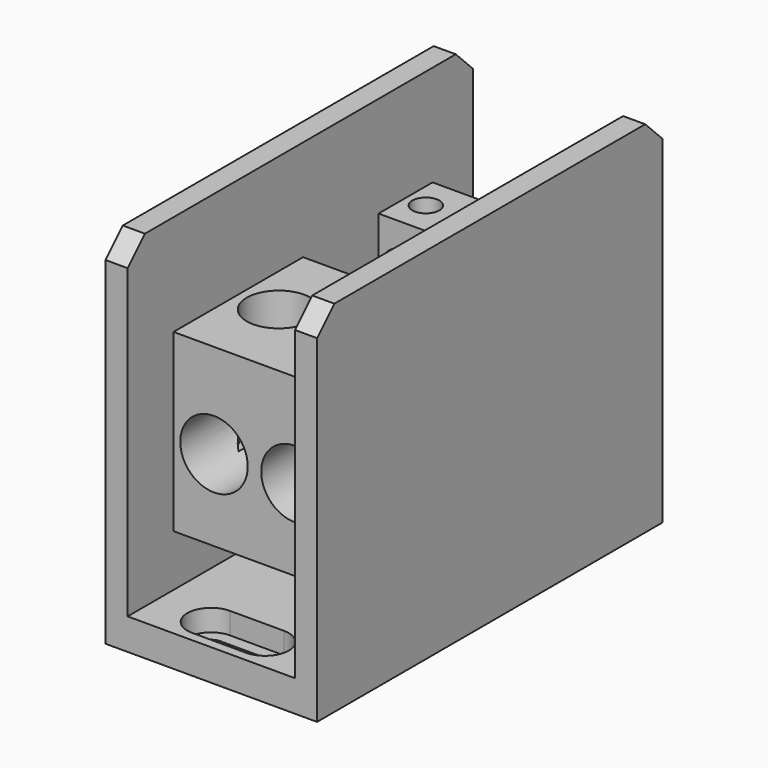
from build123d import *

# Parameters (mm, degrees)
F0_W      = 49.784
F0_H      = 101.6
F1_DEPTH  = 84.582
F2_W      = 39.37
F2_H      = 101.6
F3_DEPTH  = 77.216
F4_W      = 12.7
F4_H      = 5.334
F5_DEPTH  = 7.366
F6_SIZE   = 5.08
F7_W      = 12.7
F7_H      = 11.176
F8_DEPTH  = 5.08
F9_W      = 39.37
F9_H      = 38.1
F10_DEPTH = 12.7
F11_W     = 38.1
F11_H     = 76.2
F12_DEPTH = 41.275
F13_W     = 38.1
F13_H     = 22.225
F14_DEPTH = 22.225
F15_R     = 7.540625
F16_DEPTH = 28.575
F17_R     = 7.9375
F18_DEPTH = 38.1
F19_R     = 3.175
F20_DEPTH = 12.7
F21_R     = 2.515423
F21_R_2   = 2.622326
F21_R_3   = 2.727055
F21_R_4   = 2.517605
F22_DEPTH = 12.7
F23_R     = 3.571875
F24_DEPTH = 31.75


with BuildPart() as f1:
    # F0 (on Top) → F1 (new body)
    with BuildSketch(Plane.XY):
        Rectangle(F0_W, F0_H)
    extrude(amount=F1_DEPTH)

    # F2 (on face) → F3 (cut)
    with BuildSketch(Plane.XY.offset(84.582)):
        Rectangle(F2_W, F2_H)
    extrude(amount=-F3_DEPTH, mode=Mode.SUBTRACT)

    # F4 (on face) → F5 (cut)
    with BuildSketch(Plane.XY.offset(7.366)):
        with Locations((0, 42.926)):
            Rectangle(F4_W, F4_H)
        with BuildLine():
            Line((6.35, 45.593), (6.35, 40.259))
            ThreePointArc((6.35, 40.259), (9.017, 42.926), (6.35, 45.593))
        make_face()
        with BuildLine():
            ThreePointArc((-6.35, 45.593), (-9.017, 42.926), (-6.35, 40.259))
            Line((-6.35, 40.259), (-6.35, 45.593))
        make_face()
        with Locations((0, -42.926)):
            Rectangle(F4_W, F4_H)
        with BuildLine():
            Line((-6.35, -45.593), (-6.35, -40.259))
            ThreePointArc((-6.35, -40.259), (-9.017, -42.926), (-6.35, -45.593))
        make_face()
        with BuildLine():
            ThreePointArc((6.35, -45.593), (9.017, -42.926), (6.35, -40.259))
            Line((6.35, -40.259), (6.35, -45.593))
        make_face()
    extrude(amount=-F5_DEPTH, mode=Mode.SUBTRACT)

    # F6
    f6_edges = [f1.edges().sort_by_distance(p)[0] for p in [
        (-22.2885, 50.8, 84.582),
        (22.2885, 50.8, 84.582),
        (22.2885, -50.8, 84.582),
        (-22.2885, -50.8, 84.582),
    ]]
    chamfer(f6_edges, length=F6_SIZE)

    # F7 (on face) → F8 (cut)
    with BuildSketch(Plane.XY.offset(7.366)):
        with Locations((0, 42.926)):
            Rectangle(F7_W, F7_H)
        with BuildLine():
            ThreePointArc((-6.35, 48.514), (-11.938, 42.926), (-6.35, 37.338))
            Line((-6.35, 37.338), (-6.35, 48.514))
        make_face()
        with BuildLine():
            Line((6.35, 48.514), (6.35, 37.338))
            ThreePointArc((6.35, 37.338), (11.938, 42.926), (6.35, 48.514))
        make_face()
        with Locations((0, -42.926)):
            Rectangle(F7_W, F7_H)
        with BuildLine():
            ThreePointArc((-6.35, -37.338), (-11.938, -42.926), (-6.35, -48.514))
            Line((-6.35, -48.514), (-6.35, -37.338))
        make_face()
        with BuildLine():
            Line((6.35, -37.338), (6.35, -48.514))
            ThreePointArc((6.35, -48.514), (11.938, -42.926), (6.35, -37.338))
        make_face()
    extrude(amount=-F8_DEPTH, mode=Mode.SUBTRACT)

    # F9 (on face) → F10 (join)
    with BuildSketch(Plane.XY.offset(7.366)):
        Rectangle(F9_W, F9_H)
    extrude(amount=F10_DEPTH)


with BuildPart() as f12:
    # F11 (on face) → F12 (new body)
    with BuildSketch(Plane.XY.offset(20.066)):
        Rectangle(F11_W, F11_H)
    extrude(amount=F12_DEPTH)

    # F13 (on face) → F14 (cut)
    with BuildSketch(Plane.XY.offset(61.341)):
        with Locations((0, 11.1125)):
            Rectangle(F13_W, F13_H)
    extrude(amount=-F14_DEPTH, mode=Mode.SUBTRACT)

    # F15 (on face) → F16 (cut)
    with BuildSketch(Plane.XY.offset(61.341)):
        with Locations((-9.525, -19.05)):
            Circle(F15_R)
        with Locations((9.525, -19.05)):
            Circle(F15_R)
    extrude(amount=-F16_DEPTH, mode=Mode.SUBTRACT)

    # F17 (on face) → F18 (cut)
    with BuildSketch(Plane.XZ.offset(38.1)):
        with Locations((-9.525, 39.116)):
            Circle(F17_R)
        with Locations((9.525, 39.116)):
            Circle(F17_R)
    extrude(amount=-F18_DEPTH, mode=Mode.SUBTRACT)

    # F19 (on face) → F20 (cut)
    with BuildSketch(Plane.XY.offset(61.341)):
        with Locations((-4.7625, 30.1625)):
            Circle(F19_R)
        with Locations((4.7625, 30.1625)):
            Circle(F19_R)
        with Locations((14.2875, 30.1625)):
            Circle(F19_R)
        with Locations((-14.2875, 30.1625)):
            Circle(F19_R)
    extrude(amount=-F20_DEPTH, mode=Mode.SUBTRACT)

    # F21 (on face) → F22 (cut)
    with BuildSketch(Plane.XY.offset(39.116)):
        with Locations((-4.7625, 14.2875)):
            Circle(F21_R)
        with Locations((-14.2875, 14.2875)):
            Circle(F21_R_2)
        with Locations((4.7625, 14.2875)):
            Circle(F21_R_3)
        with Locations((14.2875, 14.2875)):
            Circle(F21_R_4)
    extrude(amount=-F22_DEPTH, mode=Mode.SUBTRACT)

    # F23 (on face) → F24 (cut)
    with BuildSketch(Plane(origin=(0, 38.1, 0), x_dir=(-1, 0, 0), z_dir=(0, 1, 0))):
        with Locations((-4.7625, 51.816)):
            Circle(F23_R)
        with Locations((-14.2875, 51.816)):
            Circle(F23_R)
        with Locations((4.7625, 51.816)):
            Circle(F23_R)
        with Locations((14.2875, 51.816)):
            Circle(F23_R)
        with Locations((-4.7625, 30.38475)):
            Circle(F23_R)
        with Locations((-14.2875, 30.38475)):
            Circle(F23_R)
        with Locations((4.7625, 30.38475)):
            Circle(F23_R)
        with Locations((14.2875, 30.38475)):
            Circle(F23_R)
    extrude(amount=-F24_DEPTH, mode=Mode.SUBTRACT)


solid = Compound([f1.part, f12.part])
